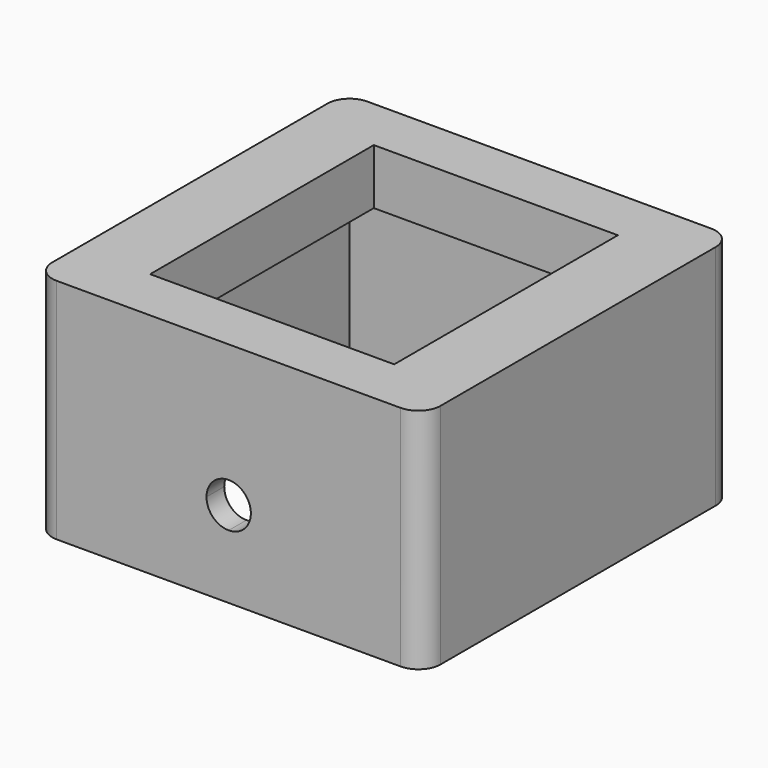
from build123d import *

# Parameters (mm, degrees)
F0_W      = 39.37
F0_H      = 39.37
F1_DEPTH  = 26.2128
F2_W      = 39.37
F2_H      = 7.112
F3_DEPTH  = 40.291659534
F4_W      = 27.94
F4_H      = 32.004
F5_DEPTH  = 25.4
F6_DEPTH  = 0.762
F7_DEPTH  = 0.6096
F9_DEPTH  = 7.62
F11_DEPTH = 7.62


with BuildPart() as f1:
    # F0 (on Top) → F1 (new body)
    with BuildSketch(Plane.XY):
        with BuildLine():
            Line((-19.685, -22.225), (19.685, -22.225))
            ThreePointArc((19.685, -22.225), (21.4810512242, -21.4810512242), (22.225, -19.685))
            Line((22.225, -19.685), (22.225, 19.685))
            ThreePointArc((22.225, 19.685), (21.4810512242, 21.4810512242), (19.685, 22.225))
            Line((19.685, 22.225), (-19.685, 22.225))
            ThreePointArc((-19.685, 22.225), (-20.4412358464, 22.1098107853), (-21.1288809737, 21.7746908225))
            ThreePointArc((-21.1288809737, 21.7746908225), (-21.4448596213, 21.5165278085), (-21.7154231521, 21.211100201))
            ThreePointArc((-21.7154231521, 21.211100201), (-22.0942400053, 20.4894641675), (-22.225, 19.685))
            Line((-22.225, 19.685), (-22.225, -19.685))
            ThreePointArc((-22.225, -19.685), (-21.4810512242, -21.4810512242), (-19.685, -22.225))
        make_face()
        Rectangle(F0_W, F0_H, mode=Mode.SUBTRACT)
    extrude(amount=F1_DEPTH)

    # F2 (on face) → F3 (join)
    with BuildSketch(Plane(origin=(0, -19.685, 0), x_dir=(-1, 0, 0), z_dir=(0, 1, 0))):
        with Locations((0, 22.6568)):
            Rectangle(F2_W, F2_H)
    extrude(amount=F3_DEPTH)

    # F4 (on face) → F5 (cut)
    with BuildSketch(Plane(origin=(0, 0, 19.1008), x_dir=(1, 0, 0), z_dir=(0, 0, -1))):
        Rectangle(F4_W, F4_H)
    extrude(amount=-F5_DEPTH, mode=Mode.SUBTRACT)

    # F6 (cut): a face of the model
    f6_faces = [f1.faces().sort_by_distance(p)[0] for p in [
        (0, -21.5963820715, 26.2128),
    ]]
    extrude(f6_faces, amount=-F6_DEPTH, mode=Mode.SUBTRACT)

    # F7 (add): a face of the model
    f7_faces = [f1.faces().sort_by_distance(p)[0] for p in [
        (0, -21.5963820715, 0),
    ]]
    extrude(f7_faces, amount=F7_DEPTH)

    # F8 (on face) → F9 (cut)
    with BuildSketch(Plane(origin=(0, -19.685, 0), x_dir=(-1, 0, 0), z_dir=(0, 1, 0))):
        with BuildLine():
            ThreePointArc((0, 11.7856), (-2.54, 9.2456), (0, 6.7056))
            Line((0, 6.7056), (0, 11.7856))
        make_face()
        with BuildLine():
            Line((0, 11.7856), (0, 6.7056))
            ThreePointArc((0, 6.7056), (1.7960512242, 7.4495487758), (2.54, 9.2456))
            ThreePointArc((2.54, 9.2456), (1.7960512242, 11.0416512242), (0, 11.7856))
        make_face()
    extrude(amount=-F9_DEPTH, mode=Mode.SUBTRACT)

    # F10 (on face) → F11 (cut)
    with BuildSketch(Plane.XZ.offset(-19.685)):
        with BuildLine():
            ThreePointArc((0, 11.7856), (-2.54, 9.2456), (0, 6.7056))
            Line((0, 6.7056), (0, 11.7856))
        make_face()
        with BuildLine():
            Line((0, 11.7856), (0, 6.7056))
            ThreePointArc((0, 6.7056), (1.7960512242, 7.4495487758), (2.54, 9.2456))
            ThreePointArc((2.54, 9.2456), (1.7960512242, 11.0416512242), (0, 11.7856))
        make_face()
    extrude(amount=-F11_DEPTH, mode=Mode.SUBTRACT)


solid = f1.part
